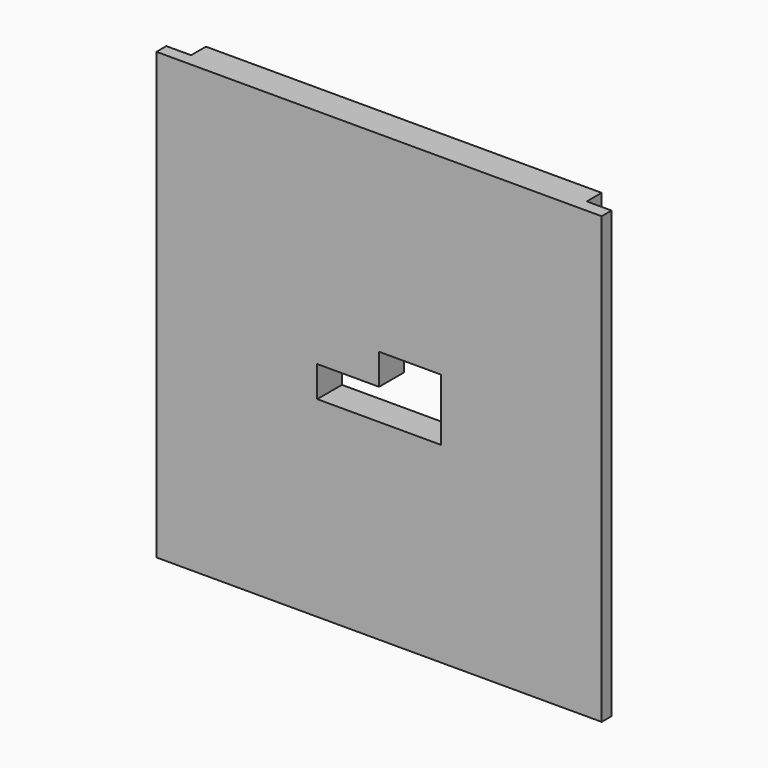
from build123d import *

# Parameters (mm, degrees)
SKETCH019_W                    = 32
SKETCH019_H                    = 36
EXTRUDE017_DEPTH               = 1.5
SKETCH018_W                    = 36
SKETCH018_H                    = 36
EXTRUDE016_DEPTH               = 1
FUSION010_PLACEMENT_ANGLE      = 270
BASEFEATURE001_PLACEMENT_ANGLE = 270
POCKET001_DEPTH                = 5
BODY002_PLACEMENT_ANGLE        = 270


with BuildPart() as extrude017:
    # Sketch019 (on Face6 of Extrude016) → Extrude017 (new body)
    with BuildSketch(Plane.XY.offset(1)):
        Rectangle(SKETCH019_W, SKETCH019_H)
    extrude(amount=EXTRUDE017_DEPTH)


with BuildPart() as body002:
    # Sketch018 → Extrude016 (new body)
    with BuildSketch(Plane.XY):
        Rectangle(SKETCH018_W, SKETCH018_H)
    extrude(amount=EXTRUDE016_DEPTH)

    # Fusion010: union Extrude017
    add(extrude017.part)


with BuildPart() as body002_1:
    # Fusion010 placement: moved
    add(body002.part.moved(Location((0, 17.5, 20))).rotate(Axis((0, 17.5, 20), (1, 0, 0)), FUSION010_PLACEMENT_ANGLE))


with BuildPart() as body002_2:
    # BaseFeature001 placement: moved
    add(body002_1.part.moved(Location((0, 20, -17.5))).rotate(Axis((0, 20, -17.5), (-1, 0, 0)), BASEFEATURE001_PLACEMENT_ANGLE))

    # Sketch025 (on Face8 of BaseFeature001) → Pocket001 (cut)
    with BuildSketch(Plane.XY.offset(2.5)):
        Polygon((0, 0), (0, -2.5), (5, -2.5), (5, 2.5), (-5, 2.5), (-5, 0), align=None)
    extrude(amount=-POCKET001_DEPTH, mode=Mode.SUBTRACT)


with BuildPart() as body002_3:
    # Body002 placement: moved
    add(body002_2.part.moved(Location((0, 17.5, 20))).rotate(Axis((0, 17.5, 20), (1, 0, 0)), BODY002_PLACEMENT_ANGLE))


solid = body002_3.part
